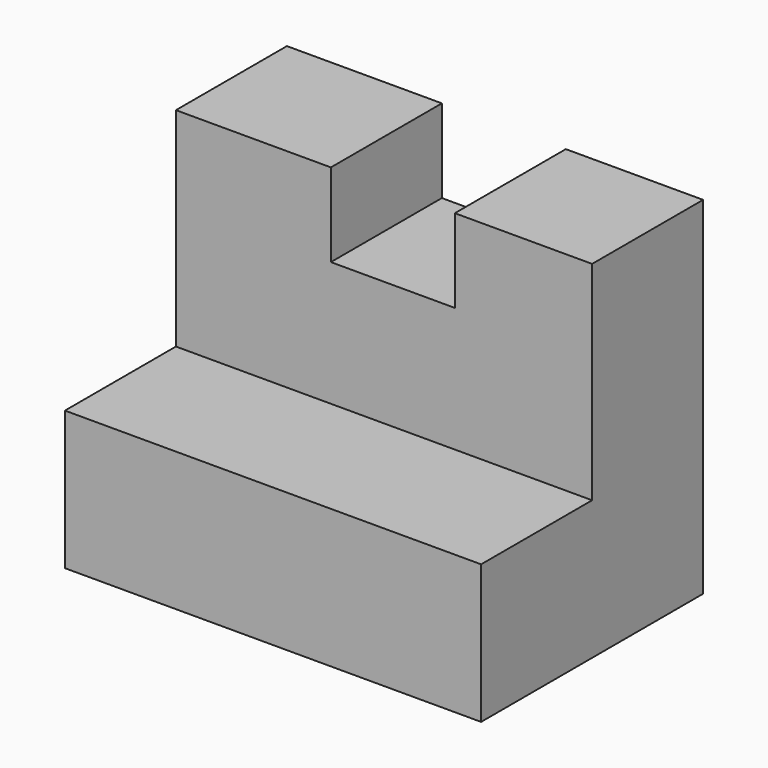
from build123d import *

# Parameters (mm, degrees)
F1_DEPTH = 38.1
F2_W     = 11.3489339128
F2_H     = 7.6335099638
F3_DEPTH = 6.35
F4_DEPTH = 12.7


with BuildPart() as f1:
    # F0 (on Right) → F1 (new body)
    with BuildSketch(Plane.YZ):
        Polygon((0, 12.7), (0, 0), (25.4, 0), (25.4, 31.75), (12.7, 31.75), (12.7, 12.7), align=None)
    extrude(amount=F1_DEPTH)

    # F2 (on face) → F3 (cut)
    with BuildSketch(Plane.XZ.offset(-12.7)):
        with Locations((19.8606378399, 27.9332450181)):
            Rectangle(F2_W, F2_H)
    extrude(amount=-F3_DEPTH, mode=Mode.SUBTRACT)

    # F4 (cut): a face of the model
    f4_faces = [f1.faces().sort_by_distance(p)[0] for p in [
        (19.8606378399, 19.05, 27.9332450181),
    ]]
    extrude(f4_faces, amount=-F4_DEPTH, mode=Mode.SUBTRACT)


solid = f1.part
